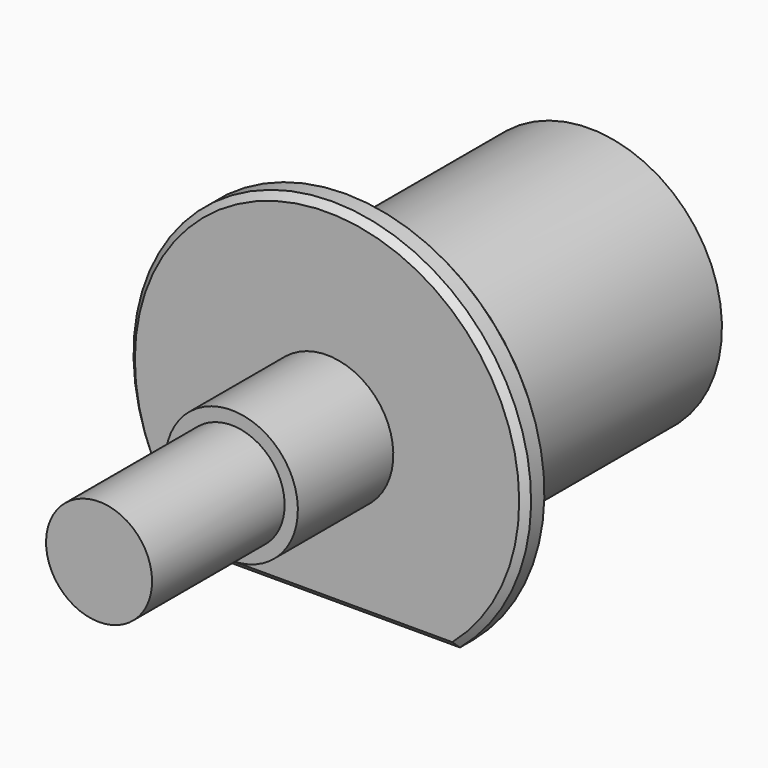
from build123d import *

# Parameters (mm, degrees)
F2_W     = 60
F2_H     = 10
F3_DEPTH = 92.501
F4_SIZE  = 1


with BuildPart() as f1:
    # F0 (on Right) → F1 (revolve)
    with BuildSketch(Plane.YZ):
        Polygon((92.5, 0), (0, 0), (0, -8), (25, -8), (25, -10), (43, -10), (43, -30), (47.5, -30), (47.5, -20), (92.5, -20), align=None)
    revolve(axis=Axis((0, 37.79896, 0), (0, 1, 0)))

    # F2 (on Front) → F3 (cut, through all)
    with BuildSketch(Plane.XZ):
        with Locations((0, -28)):
            Rectangle(F2_W, F2_H)
    extrude(amount=-F3_DEPTH, mode=Mode.SUBTRACT)

    # F4
    f4_edges = [f1.edges().sort_by_distance(p)[0] for p in [
        (0, 47.5, 30),
        (0, 47.5, -23),
        (0, 43, 30),
        (0, 43, -23),
    ]]
    chamfer(f4_edges, length=F4_SIZE)


solid = f1.part
